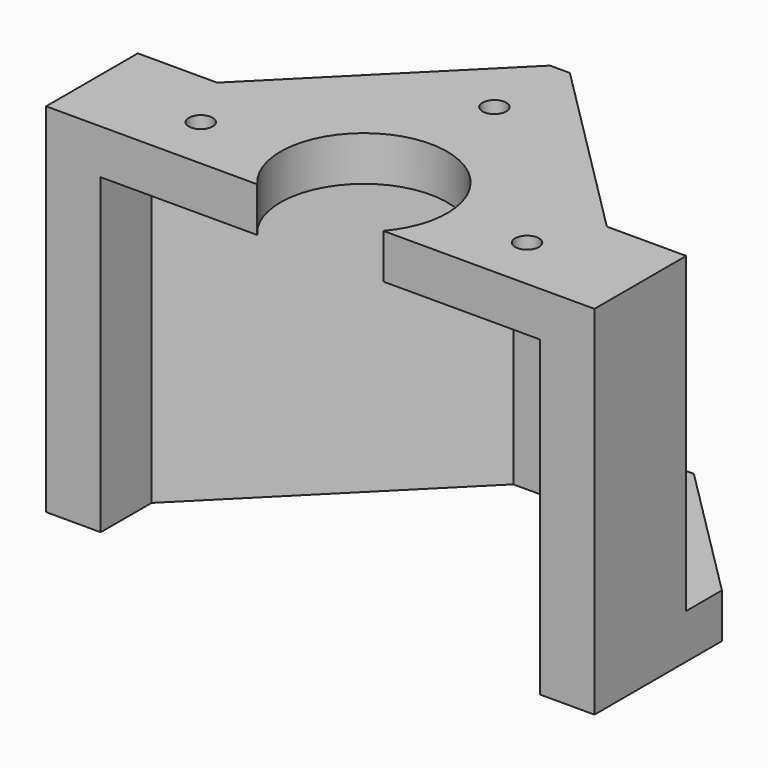
from build123d import *

# Parameters (mm, degrees)
SKETCH081_R             = 1.6
SKETCH081_R_2           = 11.2
PAD028_DEPTH            = 48
POCKET048_DEPTH         = 42
POCKET049_DEPTH         = 42
SKETCH084_W             = 10.029114
SKETCH084_H             = 77.862412
POCKET050_DEPTH         = 48
BODY018_PLACEMENT_ANGLE = 90


with BuildPart() as part:
    # Sketch081 → Pad028 (new body)
    with BuildSketch(Plane.XY):
        Polygon((133.0786530333, 18), (133.0786530333, -18), (151.9182582148, -36.8396051816), (177.784363, -36.8396051816), (177.784363, 36.8396051816), (151.9182582148, 36.8396051816), align=None)
        with Locations((144.0786530333, 0)):
            Circle(SKETCH081_R, mode=Mode.SUBTRACT)
        with Locations((165.9992734624, 21.92)):
            Circle(SKETCH081_R, mode=Mode.SUBTRACT)
        with Locations((165.9992734624, -21.92)):
            Circle(SKETCH081_R, mode=Mode.SUBTRACT)
        with Locations((165.9992734624, 0)):
            Circle(SKETCH081_R_2, mode=Mode.SUBTRACT)
        with Locations((144.0786530333, 18)):
            Circle(SKETCH081_R, mode=Mode.SUBTRACT)
        with Locations((144.0786530333, -18)):
            Circle(SKETCH081_R, mode=Mode.SUBTRACT)
    extrude(amount=-PAD028_DEPTH)

    # Sketch082 (on Face14 of Pad028) → Pocket048 (cut)
    with BuildSketch(Plane(origin=(0, 0, -48), x_dir=(1, 0, 0), z_dir=(0, 0, -1))):
        Polygon((177.784363, 29.5), (164.784363, 29.5), (137.784363, 2.5), (137.784363, -2.5), (164.784363, -29.5), (177.784363, -29.5), align=None)
    extrude(amount=-POCKET048_DEPTH, mode=Mode.SUBTRACT)

    # Sketch083 (on Face4 of Pocket048) → Pocket049 (cut)
    with BuildSketch(Plane.XY):
        Polygon((157.9182582148, 26.18), (131.7382582148, 0), (157.9182582148, -26.18), (157.9182582148, -40), (107.9182582148, -40), (107.9182582148, 40), (157.9182582148, 40), align=None)
    extrude(amount=-POCKET049_DEPTH, mode=Mode.SUBTRACT)

    # Sketch084 (on Face4 of Pocket049) → Pocket050 (cut)
    with BuildSketch(Plane.XY):
        with Locations((178.339218, -0.178093)):
            Rectangle(SKETCH084_W, SKETCH084_H)
    extrude(amount=-POCKET050_DEPTH, mode=Mode.SUBTRACT)


with BuildPart() as part_1:
    # Body018 placement: moved
    add(part.part.moved(Location((0, 54, 58))).rotate(Axis((0, 54, 58), (0, 0, -1)), BODY018_PLACEMENT_ANGLE))


solid = part_1.part
